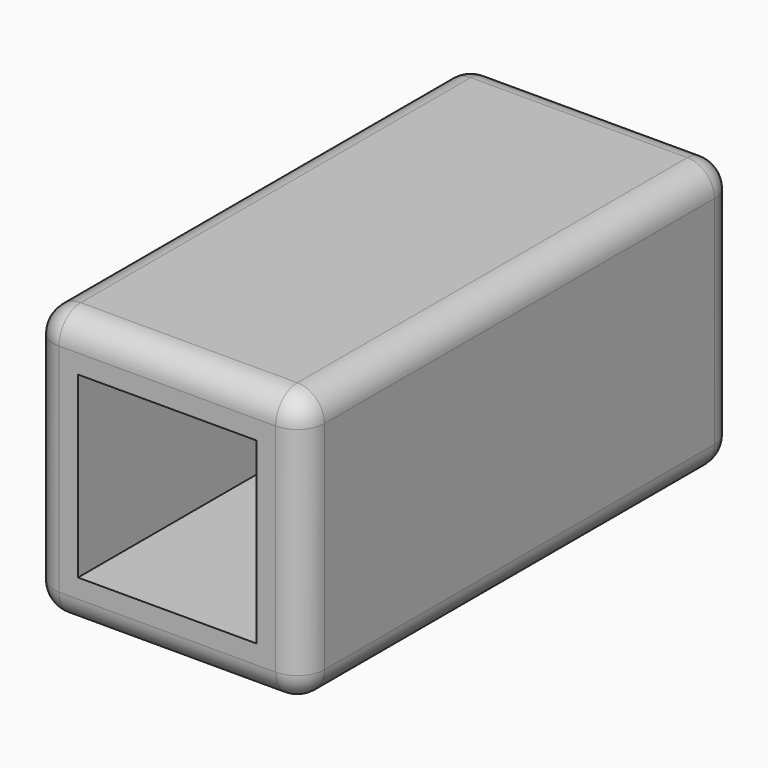
from build123d import *

# Parameters (mm, degrees)
F0_W     = 20
F0_H     = 20
F1_DEPTH = 40
F2_W     = 13.2
F2_H     = 13.2
F3_DEPTH = 18
F4_W     = 13.2
F4_H     = 13.2
F5_DEPTH = 18
F6_R     = 2


with BuildPart() as f1:
    # F0 (on Front) → F1 (new body)
    with BuildSketch(Plane.XZ):
        with Locations((10, 10)):
            Rectangle(F0_W, F0_H)
    extrude(amount=F1_DEPTH)

    # F2 (on face) → F3 (cut)
    with BuildSketch(Plane(origin=(0, 0, 0), x_dir=(-1, 0, 0), z_dir=(0, 1, 0))):
        with Locations((-10, 10)):
            Rectangle(F2_W, F2_H)
    extrude(amount=-F3_DEPTH, mode=Mode.SUBTRACT)

    # F4 (on face) → F5 (cut)
    with BuildSketch(Plane.XZ.offset(40)):
        with Locations((10, 10)):
            Rectangle(F4_W, F4_H)
    extrude(amount=-F5_DEPTH, mode=Mode.SUBTRACT)

    # F6
    f6_edges = [f1.edges().sort_by_distance(p)[0] for p in [
        (0, -20, 0),
        (20, -20, 0),
        (10, 0, 0),
        (10, -40, 0),
        (0, -20, 20),
        (0, 0, 10),
        (0, -40, 10),
        (20, -20, 20),
        (10, 0, 20),
        (10, -40, 20),
        (20, 0, 10),
        (20, -40, 10),
    ]]
    fillet(f6_edges, radius=F6_R)


solid = f1.part
